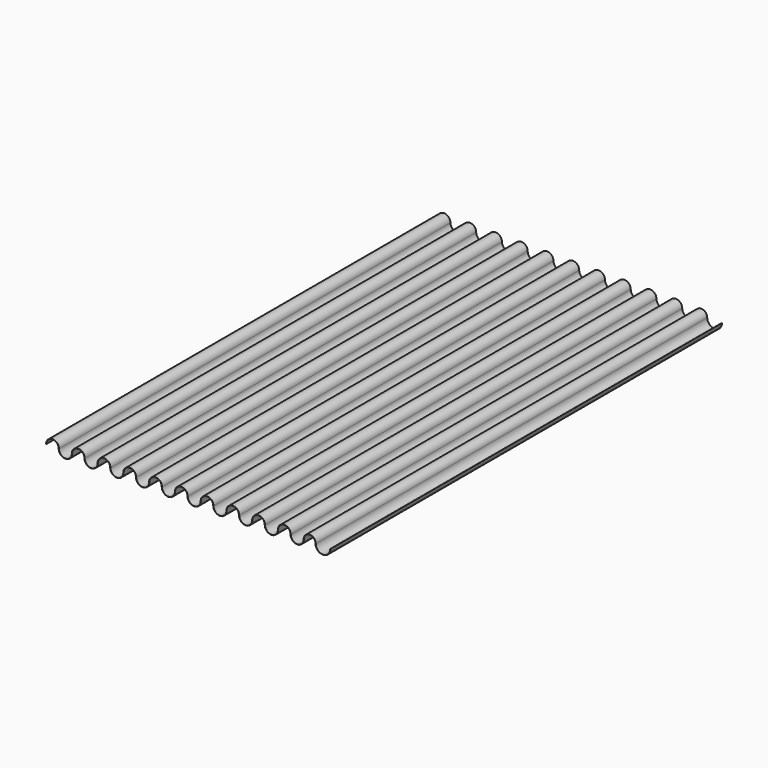
from build123d import *

# Parameters (mm, degrees)
F1_DEPTH = 3800


with BuildPart() as f1:
    # F0 (on Front) → F1 (new body)
    with BuildSketch(Plane.XZ):
        with BuildLine():
            ThreePointArc((150, 0), (100, -50), (50, 0))
            ThreePointArc((50, 0), (0, 50), (-50, 0))
            Line((-50, 0), (-48, 0))
            ThreePointArc((-48, 0), (0, 48), (48, 0))
            ThreePointArc((48, 0), (100, -52), (152, 0))
            ThreePointArc((152, 0), (200, 48), (248, 0))
            ThreePointArc((248, 0), (300, -52), (352, 0))
            ThreePointArc((352, 0), (400, 48), (448, 0))
            ThreePointArc((448, 0), (500, -52), (552, 0))
            ThreePointArc((552, 0), (600, 48), (648, 0))
            ThreePointArc((648, 0), (700, -52), (752, 0))
            ThreePointArc((752, 0), (800, 48), (848, 0))
            ThreePointArc((848, 0), (900, -52), (952, 0))
            ThreePointArc((952, 0), (1000, 48), (1048, 0))
            ThreePointArc((1048, 0), (1100, -52), (1152, 0))
            ThreePointArc((1152, 0), (1200, 48), (1248, 0))
            ThreePointArc((1248, 0), (1300, -52), (1352, 0))
            ThreePointArc((1352, 0), (1400, 48), (1448, 0))
            ThreePointArc((1448, 0), (1500, -52), (1552, 0))
            ThreePointArc((1552, 0), (1600, 48), (1648, 0))
            ThreePointArc((1648, 0), (1700, -52), (1752, 0))
            ThreePointArc((1752, 0), (1800, 48), (1848, 0))
            ThreePointArc((1848, 0), (1900, -52), (1952, 0))
            ThreePointArc((1952, 0), (1997, 45), (2042, 0))
            ThreePointArc((2042, 0), (2100, -58), (2158, 0))
            Line((2158, 0), (2156, 0))
            ThreePointArc((2156, 0), (2100, -56), (2044, 0))
            ThreePointArc((2044, 0), (1997, 47), (1950, 0))
            ThreePointArc((1950, 0), (1900, -50), (1850, 0))
            ThreePointArc((1850, 0), (1800, 50), (1750, 0))
            ThreePointArc((1750, 0), (1700, -50), (1650, 0))
            ThreePointArc((1650, 0), (1600, 50), (1550, 0))
            ThreePointArc((1550, 0), (1500, -50), (1450, 0))
            ThreePointArc((1450, 0), (1400, 50), (1350, 0))
            ThreePointArc((1350, 0), (1300, -50), (1250, 0))
            ThreePointArc((1250, 0), (1200, 50), (1150, 0))
            ThreePointArc((1150, 0), (1100, -50), (1050, 0))
            ThreePointArc((1050, 0), (1000, 50), (950, 0))
            ThreePointArc((950, 0), (900, -50), (850, 0))
            ThreePointArc((850, 0), (800, 50), (750, 0))
            ThreePointArc((750, 0), (700, -50), (650, 0))
            ThreePointArc((650, 0), (600, 50), (550, 0))
            ThreePointArc((550, 0), (500, -50), (450, 0))
            ThreePointArc((450, 0), (400, 50), (350, 0))
            ThreePointArc((350, 0), (300, -50), (250, 0))
            ThreePointArc((250, 0), (200, 50), (150, 0))
        make_face()
    extrude(amount=F1_DEPTH)


solid = f1.part
